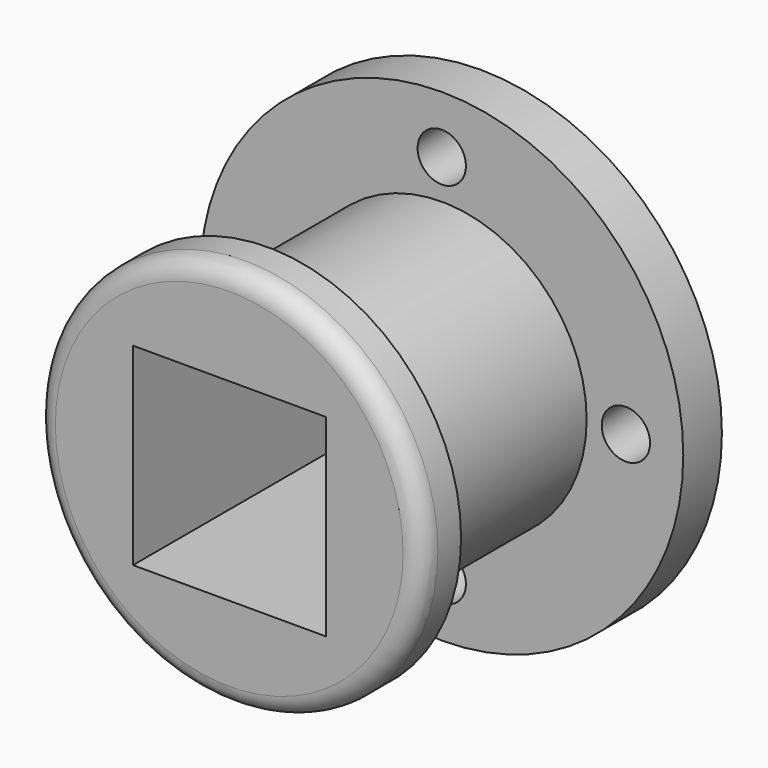
from build123d import *

# Parameters (mm, degrees)
F0_R      = 63.5
F1_DEPTH  = 12.7
F2_R      = 38.1
F3_DEPTH  = 57.15
F4_R      = 50.8
F4_R_2    = 38.1
F5_DEPTH  = 12.7
F6_R      = 5.08
F7_R      = 6.35
F8_DEPTH  = 12.7
F9_W      = 50.8
F9_H      = 50.8
F10_DEPTH = 127


with BuildPart() as f1:
    # F0 (on Front) → F1 (new body)
    with BuildSketch(Plane.XZ):
        Circle(F0_R)
    extrude(amount=F1_DEPTH)

    # F2 (on face) → F3 (join)
    with BuildSketch(Plane.XZ.offset(12.7)):
        Circle(F2_R)
    extrude(amount=F3_DEPTH)

    # F4 (on face) → F5 (join)
    with BuildSketch(Plane.XZ.offset(69.85)):
        Circle(F4_R)
        Circle(F4_R_2, mode=Mode.SUBTRACT)
        Circle(F4_R_2)
    extrude(amount=F5_DEPTH)

    # F6
    f6_edges = [f1.edges().sort_by_distance(p)[0] for p in [
        (-50.8, -82.55, 0),
    ]]
    fillet(f6_edges, radius=F6_R)

    # F7 (on face) → F8 (cut)
    with BuildSketch(Plane.XZ.offset(12.7)):
        with Locations((-48.407007, 0)):
            Circle(F7_R)
        with Locations((0, -48.407007)):
            Circle(F7_R)
        with Locations((48.407007, 0)):
            Circle(F7_R)
        with Locations((0, 48.407007)):
            Circle(F7_R)
    extrude(amount=-F8_DEPTH, mode=Mode.SUBTRACT)

    # F9 (on face) → F10 (cut)
    with BuildSketch(Plane.XZ.offset(82.55)):
        with Locations((0.098508, -0.474356)):
            Rectangle(F9_W, F9_H)
    extrude(amount=-F10_DEPTH, mode=Mode.SUBTRACT)


solid = f1.part
